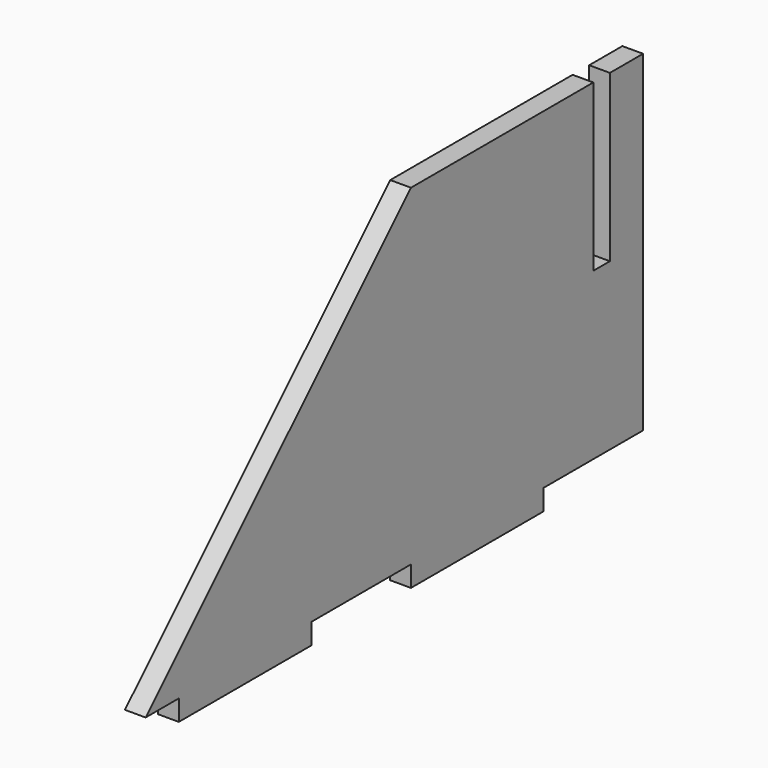
from build123d import *

# Parameters (mm, degrees)
F1_DEPTH = 1.5875


with BuildPart() as f1:
    # F0 (on Right) → F1 (new body, symmetric)
    with BuildSketch(Plane.YZ):
        Polygon((28.575, -25.4), (47.625, -25.4), (47.625, 25.4), (41.275, 25.4), (41.275, 0), (38.1, 0), (38.1, 25.4), (3.175, 25.4), (-47.625, -25.4), (-41.275, -25.4), (-41.275, -28.575), (-15.875, -28.575), (-15.875, -25.4), (3.175, -25.4), (3.175, -28.575), (28.575, -28.575), align=None)
    extrude(amount=F1_DEPTH, both=True)


solid = f1.part
